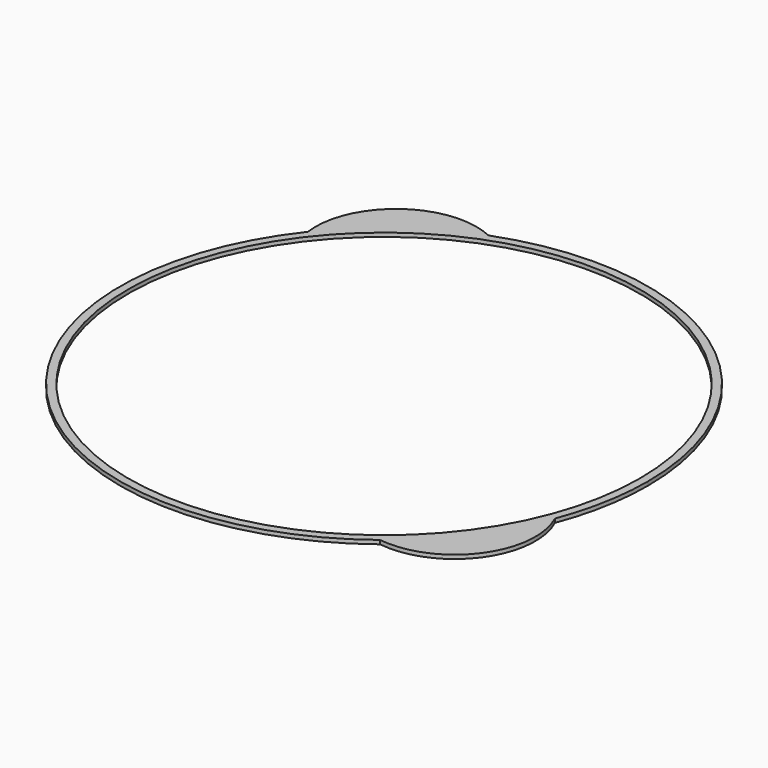
from build123d import *

# Parameters (mm, degrees)
F1_DEPTH = 1.2


with BuildPart() as f1:
    # F0 (on Top) → F1 (new body)
    with BuildSketch(Plane.XY):
        with BuildLine():
            ThreePointArc((76.570266, -29.342705), (80.631141, -14.920425), (82, 0))
            ThreePointArc((82, 0), (46.647786, 67.438743), (-28.926442, 76.728489))
            ThreePointArc((-28.926442, 76.728489), (-48.410565, 66.18472), (-64.361077, 50.809958))
            ThreePointArc((-64.361077, 50.809958), (-58.139986, -57.825098), (50.459683, -64.636061))
            ThreePointArc((50.459683, -64.636061), (65.920841, -48.769281), (76.570266, -29.342705))
        make_face()
        with BuildLine():
            ThreePointArc((56.367426, 56.062138), (73.48966, 30.323585), (79.5, 0))
            ThreePointArc((79.5, 0), (-73.48966, -30.323585), (56.367426, 56.062138))
        make_face(mode=Mode.SUBTRACT)
        with BuildLine():
            ThreePointArc((-64.361077, 50.809958), (-48.410565, 66.18472), (-28.926442, 76.728489))
            ThreePointArc((-28.926442, 76.728489), (-54.306729, 74.245687), (-64.361077, 50.809958))
        make_face()
        with BuildLine():
            ThreePointArc((50.459683, -64.636061), (73.949669, -54.709135), (76.570266, -29.342705))
            ThreePointArc((76.570266, -29.342705), (65.920841, -48.769281), (50.459683, -64.636061))
        make_face()
    extrude(amount=F1_DEPTH)


solid = f1.part
